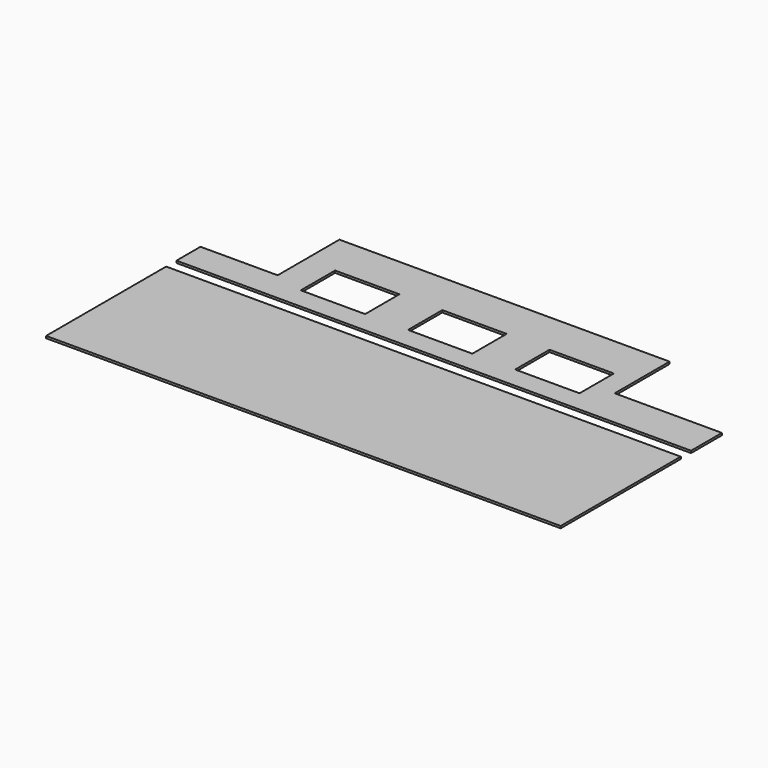
from build123d import *

# Parameters (mm, degrees)
F0_W     = 1200
F0_H     = 350
F0_W_2   = 150
F0_H_2   = 100
F1_DEPTH = 5


with BuildPart() as f1:
    # F0 (on Top) → F1 (new body)
    with BuildSketch(Plane.XY):
        with Locations((0, -175)):
            Rectangle(F0_W, F0_H)
        Polygon((-600, 100), (-600, 30), (600, 30), (600, 120), (350, 120), (350, 280), (-420, 280), (-420, 100), align=None)
        with Locations((-275, 130)):
            Rectangle(F0_W_2, F0_H_2, mode=Mode.SUBTRACT)
        with Locations((-25, 130)):
            Rectangle(F0_W_2, F0_H_2, mode=Mode.SUBTRACT)
        with Locations((225, 130)):
            Rectangle(F0_W_2, F0_H_2, mode=Mode.SUBTRACT)
    extrude(amount=F1_DEPTH)


solid = f1.part
